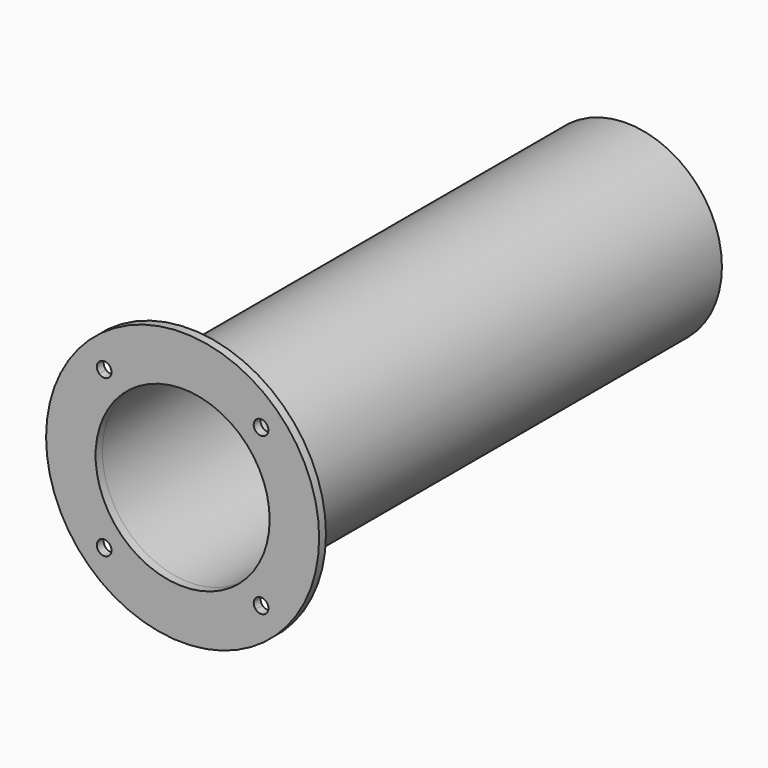
from build123d import *

# Parameters (mm, degrees)
F0_R     = 40
F0_R_2   = 28
F0_R_3   = 25.5
F1_DEPTH = 2.5
F2_DEPTH = 160


with BuildPart() as f1:
    # F0 (on Front) → F1 (new body)
    with BuildSketch(Plane.XZ):
        Circle(F0_R)
        with BuildLine():
            ThreePointArc((24.4501319139, 21.4112365218), (30.4210394892, 11.4372355226), (32.5, 0))
            ThreePointArc((32.5, 0), (30.4210394892, -11.4372355226), (24.4501319139, -21.4112365218))
            ThreePointArc((24.4501319139, -21.4112365218), (24.9534304363, -22.1254580507), (25.1309703886, -22.9809703886))
            ThreePointArc((25.1309703886, -22.9809703886), (23.7707716884, -24.9806488394), (21.4112365218, -24.4501319139))
            ThreePointArc((21.4112365218, -24.4501319139), (0, -32.5), (-21.4112365218, -24.4501319139))
            ThreePointArc((-21.4112365218, -24.4501319139), (-24.5012499681, -24.5012499681), (-24.4501319139, -21.4112365218))
            ThreePointArc((-24.4501319139, -21.4112365218), (-32.5, 0), (-24.4501319139, 21.4112365218))
            ThreePointArc((-24.4501319139, 21.4112365218), (-24.5012499681, 24.5012499681), (-21.4112365218, 24.4501319139))
            ThreePointArc((-21.4112365218, 24.4501319139), (0, 32.5), (21.4112365218, 24.4501319139))
            ThreePointArc((21.4112365218, 24.4501319139), (23.7707716884, 24.9806488394), (25.1309703886, 22.9809703886))
            ThreePointArc((25.1309703886, 22.9809703886), (24.9534304363, 22.1254580507), (24.4501319139, 21.4112365218))
        make_face(mode=Mode.SUBTRACT)
        with BuildLine():
            ThreePointArc((24.4501319139, -21.4112365218), (30.4210394892, -11.4372355226), (32.5, 0))
            ThreePointArc((32.5, 0), (30.4210394892, 11.4372355226), (24.4501319139, 21.4112365218))
            ThreePointArc((24.4501319139, 21.4112365218), (21.460690809, 21.460690809), (21.4112365218, 24.4501319139))
            ThreePointArc((21.4112365218, 24.4501319139), (0, 32.5), (-21.4112365218, 24.4501319139))
            ThreePointArc((-21.4112365218, 24.4501319139), (-20.9812919377, 23.7707716884), (-20.8309703886, 22.9809703886))
            ThreePointArc((-20.8309703886, 22.9809703886), (-22.1254580507, 21.0085103409), (-24.4501319139, 21.4112365218))
            ThreePointArc((-24.4501319139, 21.4112365218), (-32.5, 0), (-24.4501319139, -21.4112365218))
            ThreePointArc((-24.4501319139, -21.4112365218), (-22.1254580507, -21.0085103409), (-20.8309703886, -22.9809703886))
            ThreePointArc((-20.8309703886, -22.9809703886), (-20.9812919377, -23.7707716884), (-21.4112365218, -24.4501319139))
            ThreePointArc((-21.4112365218, -24.4501319139), (0, -32.5), (21.4112365218, -24.4501319139))
            ThreePointArc((21.4112365218, -24.4501319139), (21.460690809, -21.460690809), (24.4501319139, -21.4112365218))
        make_face()
        Circle(F0_R_2, mode=Mode.SUBTRACT)
        Circle(F0_R_2)
        Circle(F0_R_3, mode=Mode.SUBTRACT)
        Circle(F0_R_2)
        Circle(F0_R_3, mode=Mode.SUBTRACT)
    extrude(amount=F1_DEPTH)

    # F0 (on Front) → F2 (join)
    with BuildSketch(Plane.XZ):
        Circle(F0_R_2)
        Circle(F0_R_3, mode=Mode.SUBTRACT)
    extrude(amount=-F2_DEPTH)


solid = f1.part
